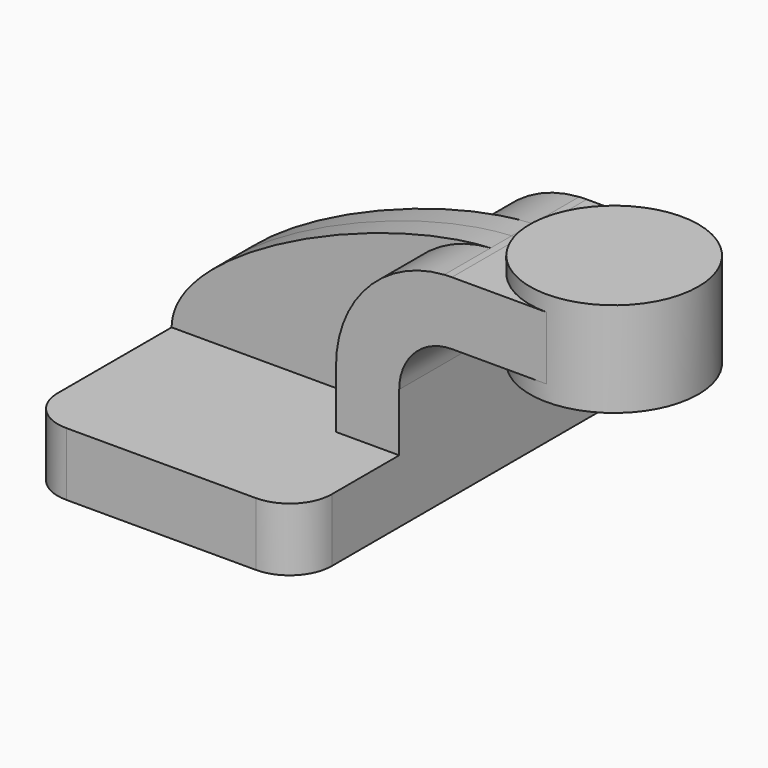
from build123d import *

# Parameters (mm, degrees)
F1_DEPTH = 63.5
F2_DEPTH = 25.4
F3_DEPTH = 7.9375
F5_R     = 12.7


with BuildPart() as f1:
    # F0 (on Front) → F1 (new body, symmetric)
    with BuildSketch(Plane.XZ):
        Polygon((-41.275, 9.525), (-41.275, -9.525), (41.275, -9.525), (41.275, 9.525), (22.225, 9.525), align=None)
    extrude(amount=F1_DEPTH, both=True)

    # F0 (on Front) → F2 (join, symmetric)
    with BuildSketch(Plane.XZ):
        Polygon((85.725, 61.9252), (60.325, 61.9252), (60.325, 42.8752), (85.725, 42.8752), (85.725, 52.3875), align=None)
        with BuildLine():
            Line((22.225, 9.525), (41.275, 9.525))
            Line((41.275, 9.525), (41.275, 27.0002))
            ThreePointArc((41.275, 27.0002), (45.9246798487, 38.2255201513), (57.15, 42.8752))
            Line((57.15, 42.8752), (60.325, 42.8752))
            Line((60.325, 42.8752), (60.325, 61.9252))
            Line((60.325, 61.9252), (57.15, 61.9252))
            add(Edge.make_bspline(
                [(54.8603183175, 61.8500634544), (55.6368577233, 61.8882476927), (56.4004054697, 61.9134098157), (57.15, 61.9252)],
                knots=[109.0783703801, 109.0783703801, 109.0783703801, 109.0783703801, 111.5045361635, 111.5045361635, 111.5045361635, 111.5045361635], degree=3))
            ThreePointArc((54.8603183175, 61.8500634544), (31.6576211608, 50.8726578986), (22.225, 27.0002))
            Line((22.225, 27.0002), (22.225, 9.525))
        make_face()
    extrude(amount=F2_DEPTH, both=True)

    # F0 (on Front) → F3 (join, symmetric)
    with BuildSketch(Plane.XZ):
        with BuildLine():
            add(Edge.make_bspline(
                [(-41.275, 9.525), (-41.2251744093, 32.0946626857), (19.9477606111, 60.1333322619), (54.8603183175, 61.8500634544)],
                knots=[0, 0, 0, 0, 109.0783703801, 109.0783703801, 109.0783703801, 109.0783703801], degree=3))
            Line((-41.275, 9.525), (22.225, 9.525))
            Line((22.225, 9.525), (22.225, 27.0002))
            ThreePointArc((22.225, 27.0002), (31.6576211608, 50.8726578986), (54.8603183175, 61.8500634544))
        make_face()
    extrude(amount=F3_DEPTH, both=True)

    # F0 (on Front) → F4 (revolve)
    with BuildSketch(Plane.XZ):
        Polygon((85.725, 66.675), (85.725, 61.9252), (85.725, 52.3875), (85.725, 42.8752), (85.725, 38.1), (111.125, 38.1), (111.125, 66.675), align=None)
    revolve(axis=Axis((85.725, 0, 45.24375), (0, 0, 1)))

    # F5
    f5_edges = [f1.edges().sort_by_distance(p)[0] for p in [
        (41.275, -63.5, 0),
        (-41.275, -63.5, 0),
        (41.275, 63.5, 0),
        (-41.275, 63.5, 0),
    ]]
    fillet(f5_edges, radius=F5_R)


solid = f1.part
